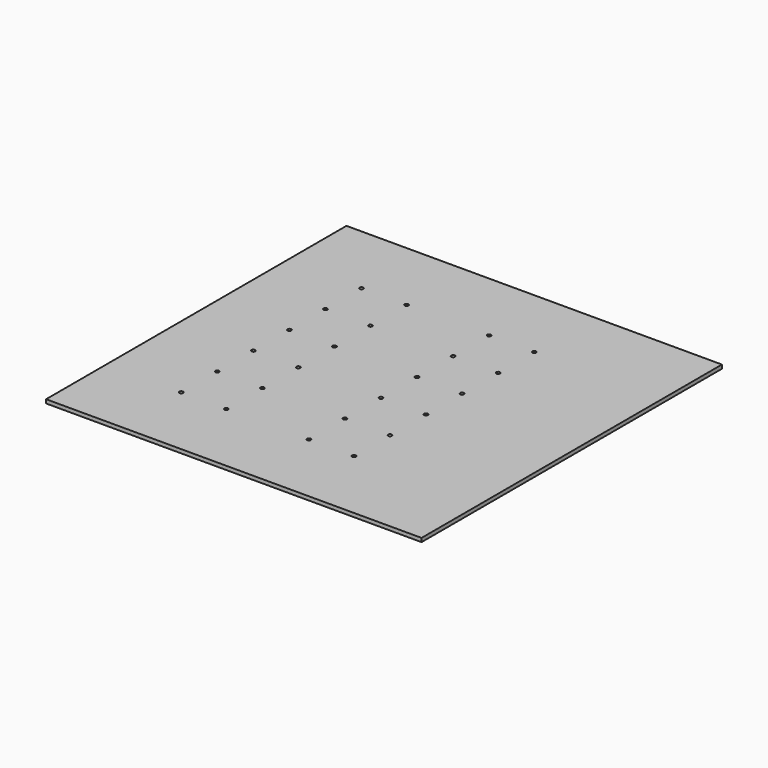
from build123d import *

# Parameters (mm, degrees)
CYLINDER005_R     = 2.5
CYLINDER005_DEPTH = 5
CYLINDER004_R     = 2.5
CYLINDER004_DEPTH = 5
CYLINDER006_R     = 2.5
CYLINDER006_DEPTH = 5
CYLINDER007_R     = 2.5
CYLINDER007_DEPTH = 5
CYLINDER009_R     = 2.5
CYLINDER009_DEPTH = 5
CYLINDER008_R     = 2.5
CYLINDER008_DEPTH = 5
CYLINDER010_R     = 2.5
CYLINDER010_DEPTH = 5
CYLINDER011_R     = 2.5
CYLINDER011_DEPTH = 5
CYLINDER013_R     = 2.5
CYLINDER013_DEPTH = 5
CYLINDER012_R     = 2.5
CYLINDER012_DEPTH = 5
CYLINDER014_R     = 2.5
CYLINDER014_DEPTH = 5
CYLINDER015_R     = 2.5
CYLINDER015_DEPTH = 5
CYLINDER017_R     = 2.5
CYLINDER017_DEPTH = 5
CYLINDER016_R     = 2.5
CYLINDER016_DEPTH = 5
CYLINDER018_R     = 2.5
CYLINDER018_DEPTH = 5
CYLINDER019_R     = 2.5
CYLINDER019_DEPTH = 5
CYLINDER021_R     = 2.5
CYLINDER021_DEPTH = 5
CYLINDER020_R     = 2.5
CYLINDER020_DEPTH = 5
CYLINDER022_R     = 2.5
CYLINDER022_DEPTH = 5
CYLINDER023_R     = 2.5
CYLINDER023_DEPTH = 5
CYLINDER001_R     = 2.5
CYLINDER001_DEPTH = 5
CYLINDER002_R     = 2.5
CYLINDER002_DEPTH = 5
CYLINDER003_R     = 2.5
CYLINDER003_DEPTH = 5
CYLINDER_R        = 2.5
CYLINDER_DEPTH    = 5
BOX_W             = 500
BOX_H             = 500
BOX_DEPTH         = 5


with BuildPart() as cylinder005:
    # Cylinder005 → Cylinder005 (new body)
    with BuildSketch(Plane(origin=(270, 100, -5), x_dir=(1, 0, 0), z_dir=(0, 0, 1))):
        Circle(CYLINDER005_R)
    extrude(amount=CYLINDER005_DEPTH)


with BuildPart() as cylinder004:
    # Cylinder004 → Cylinder004 (new body)
    with BuildSketch(Plane(origin=(160, 100, -5), x_dir=(1, 0, 0), z_dir=(0, 0, 1))):
        Circle(CYLINDER004_R)
    extrude(amount=CYLINDER004_DEPTH)


with BuildPart() as cylinder006:
    # Cylinder006 → Cylinder006 (new body)
    with BuildSketch(Plane(origin=(330, 100, -5), x_dir=(1, 0, 0), z_dir=(0, 0, 1))):
        Circle(CYLINDER006_R)
    extrude(amount=CYLINDER006_DEPTH)


with BuildPart() as fusion001:
    # Cylinder007 → Cylinder007 (new body)
    with BuildSketch(Plane(origin=(100, 100, -5), x_dir=(1, 0, 0), z_dir=(0, 0, 1))):
        Circle(CYLINDER007_R)
    extrude(amount=CYLINDER007_DEPTH)

    # Fusion001: union Cylinder005, Cylinder004, Cylinder006
    add(cylinder005.part)
    add(cylinder004.part)
    add(cylinder006.part)


with BuildPart() as fusion001_1:
    # Fusion001 placement: moved
    add(fusion001.part.moved(Location((0, 60, 0))))


with BuildPart() as cylinder009:
    # Cylinder009 → Cylinder009 (new body)
    with BuildSketch(Plane(origin=(270, 100, -5), x_dir=(1, 0, 0), z_dir=(0, 0, 1))):
        Circle(CYLINDER009_R)
    extrude(amount=CYLINDER009_DEPTH)


with BuildPart() as cylinder008:
    # Cylinder008 → Cylinder008 (new body)
    with BuildSketch(Plane(origin=(160, 100, -5), x_dir=(1, 0, 0), z_dir=(0, 0, 1))):
        Circle(CYLINDER008_R)
    extrude(amount=CYLINDER008_DEPTH)


with BuildPart() as cylinder010:
    # Cylinder010 → Cylinder010 (new body)
    with BuildSketch(Plane(origin=(330, 100, -5), x_dir=(1, 0, 0), z_dir=(0, 0, 1))):
        Circle(CYLINDER010_R)
    extrude(amount=CYLINDER010_DEPTH)


with BuildPart() as fusion002:
    # Cylinder011 → Cylinder011 (new body)
    with BuildSketch(Plane(origin=(100, 100, -5), x_dir=(1, 0, 0), z_dir=(0, 0, 1))):
        Circle(CYLINDER011_R)
    extrude(amount=CYLINDER011_DEPTH)

    # Fusion002: union Cylinder009, Cylinder008, Cylinder010
    add(cylinder009.part)
    add(cylinder008.part)
    add(cylinder010.part)


with BuildPart() as fusion002_1:
    # Fusion002 placement: moved
    add(fusion002.part.moved(Location((0, 120, 0))))


with BuildPart() as cylinder013:
    # Cylinder013 → Cylinder013 (new body)
    with BuildSketch(Plane(origin=(270, 100, -5), x_dir=(1, 0, 0), z_dir=(0, 0, 1))):
        Circle(CYLINDER013_R)
    extrude(amount=CYLINDER013_DEPTH)


with BuildPart() as cylinder012:
    # Cylinder012 → Cylinder012 (new body)
    with BuildSketch(Plane(origin=(160, 100, -5), x_dir=(1, 0, 0), z_dir=(0, 0, 1))):
        Circle(CYLINDER012_R)
    extrude(amount=CYLINDER012_DEPTH)


with BuildPart() as cylinder014:
    # Cylinder014 → Cylinder014 (new body)
    with BuildSketch(Plane(origin=(330, 100, -5), x_dir=(1, 0, 0), z_dir=(0, 0, 1))):
        Circle(CYLINDER014_R)
    extrude(amount=CYLINDER014_DEPTH)


with BuildPart() as fusion003:
    # Cylinder015 → Cylinder015 (new body)
    with BuildSketch(Plane(origin=(100, 100, -5), x_dir=(1, 0, 0), z_dir=(0, 0, 1))):
        Circle(CYLINDER015_R)
    extrude(amount=CYLINDER015_DEPTH)

    # Fusion003: union Cylinder013, Cylinder012, Cylinder014
    add(cylinder013.part)
    add(cylinder012.part)
    add(cylinder014.part)


with BuildPart() as fusion003_1:
    # Fusion003 placement: moved
    add(fusion003.part.moved(Location((0, 180, 0))))


with BuildPart() as cylinder017:
    # Cylinder017 → Cylinder017 (new body)
    with BuildSketch(Plane(origin=(270, 100, -5), x_dir=(1, 0, 0), z_dir=(0, 0, 1))):
        Circle(CYLINDER017_R)
    extrude(amount=CYLINDER017_DEPTH)


with BuildPart() as cylinder016:
    # Cylinder016 → Cylinder016 (new body)
    with BuildSketch(Plane(origin=(160, 100, -5), x_dir=(1, 0, 0), z_dir=(0, 0, 1))):
        Circle(CYLINDER016_R)
    extrude(amount=CYLINDER016_DEPTH)


with BuildPart() as cylinder018:
    # Cylinder018 → Cylinder018 (new body)
    with BuildSketch(Plane(origin=(330, 100, -5), x_dir=(1, 0, 0), z_dir=(0, 0, 1))):
        Circle(CYLINDER018_R)
    extrude(amount=CYLINDER018_DEPTH)


with BuildPart() as fusion004:
    # Cylinder019 → Cylinder019 (new body)
    with BuildSketch(Plane(origin=(100, 100, -5), x_dir=(1, 0, 0), z_dir=(0, 0, 1))):
        Circle(CYLINDER019_R)
    extrude(amount=CYLINDER019_DEPTH)

    # Fusion004: union Cylinder017, Cylinder016, Cylinder018
    add(cylinder017.part)
    add(cylinder016.part)
    add(cylinder018.part)


with BuildPart() as fusion004_1:
    # Fusion004 placement: moved
    add(fusion004.part.moved(Location((0, 240, 0))))


with BuildPart() as cylinder021:
    # Cylinder021 → Cylinder021 (new body)
    with BuildSketch(Plane(origin=(270, 100, -5), x_dir=(1, 0, 0), z_dir=(0, 0, 1))):
        Circle(CYLINDER021_R)
    extrude(amount=CYLINDER021_DEPTH)


with BuildPart() as cylinder020:
    # Cylinder020 → Cylinder020 (new body)
    with BuildSketch(Plane(origin=(160, 100, -5), x_dir=(1, 0, 0), z_dir=(0, 0, 1))):
        Circle(CYLINDER020_R)
    extrude(amount=CYLINDER020_DEPTH)


with BuildPart() as cylinder022:
    # Cylinder022 → Cylinder022 (new body)
    with BuildSketch(Plane(origin=(330, 100, -5), x_dir=(1, 0, 0), z_dir=(0, 0, 1))):
        Circle(CYLINDER022_R)
    extrude(amount=CYLINDER022_DEPTH)


with BuildPart() as fusion005:
    # Cylinder023 → Cylinder023 (new body)
    with BuildSketch(Plane(origin=(100, 100, -5), x_dir=(1, 0, 0), z_dir=(0, 0, 1))):
        Circle(CYLINDER023_R)
    extrude(amount=CYLINDER023_DEPTH)

    # Fusion005: union Cylinder021, Cylinder020, Cylinder022
    add(cylinder021.part)
    add(cylinder020.part)
    add(cylinder022.part)


with BuildPart() as fusion005_1:
    # Fusion005 placement: moved
    add(fusion005.part.moved(Location((0, 300, 0))))


with BuildPart() as cylinder001:
    # Cylinder001 → Cylinder001 (new body)
    with BuildSketch(Plane(origin=(270, 100, -5), x_dir=(1, 0, 0), z_dir=(0, 0, 1))):
        Circle(CYLINDER001_R)
    extrude(amount=CYLINDER001_DEPTH)


with BuildPart() as cylinder002:
    # Cylinder002 → Cylinder002 (new body)
    with BuildSketch(Plane(origin=(160, 100, -5), x_dir=(1, 0, 0), z_dir=(0, 0, 1))):
        Circle(CYLINDER002_R)
    extrude(amount=CYLINDER002_DEPTH)


with BuildPart() as cylinder003:
    # Cylinder003 → Cylinder003 (new body)
    with BuildSketch(Plane(origin=(330, 100, -5), x_dir=(1, 0, 0), z_dir=(0, 0, 1))):
        Circle(CYLINDER003_R)
    extrude(amount=CYLINDER003_DEPTH)


with BuildPart() as fusion006:
    # Cylinder → Cylinder (new body)
    with BuildSketch(Plane(origin=(100, 100, -5), x_dir=(1, 0, 0), z_dir=(0, 0, 1))):
        Circle(CYLINDER_R)
    extrude(amount=CYLINDER_DEPTH)

    # Fusion: union Cylinder001, Cylinder002, Cylinder003
    add(cylinder001.part)
    add(cylinder002.part)
    add(cylinder003.part)

    # Fusion006: union Fusion001, Fusion002, Fusion003, Fusion004, Fusion005
    add(fusion001_1.part)
    add(fusion002_1.part)
    add(fusion003_1.part)
    add(fusion004_1.part)
    add(fusion005_1.part)


with BuildPart() as cut:
    # Box → Box (new body)
    with BuildSketch(Plane.XY.offset(-5)):
        with Locations((250, 250)):
            Rectangle(BOX_W, BOX_H)
    extrude(amount=BOX_DEPTH)

    # Cut: cut Fusion006
    add(fusion006.part, mode=Mode.SUBTRACT)


solid = cut.part
